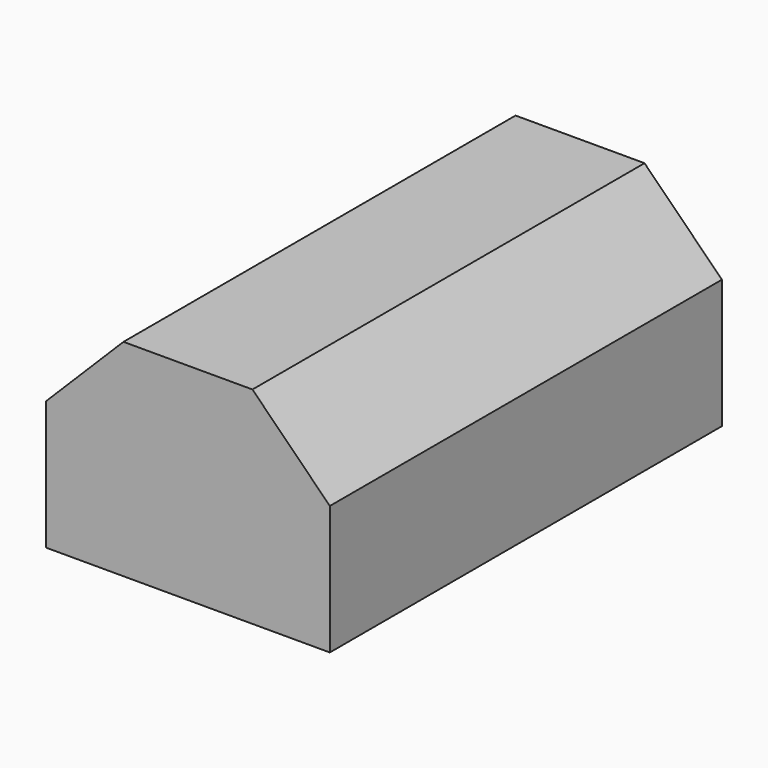
from build123d import *

# Parameters (mm, degrees)
BOX_W           = 11
BOX_H           = 19
BOX_DEPTH       = 8
CHAMFER_SIZE    = 3
CHAMFER002_SIZE = 3


with BuildPart() as part:
    # Box → Box (new body)
    with BuildSketch(Plane.XY):
        with Locations((5.5, 9.5)):
            Rectangle(BOX_W, BOX_H)
    extrude(amount=BOX_DEPTH)

    # Chamfer
    chamfer_edges = [part.edges().sort_by_distance(p)[0] for p in [
        (11, 9.5, 8),
    ]]
    chamfer(chamfer_edges, length=CHAMFER_SIZE)

    # Chamfer002
    chamfer002_edges = [part.edges().sort_by_distance(p)[0] for p in [
        (0, 9.5, 8),
    ]]
    chamfer(chamfer002_edges, length=CHAMFER002_SIZE)


solid = part.part
